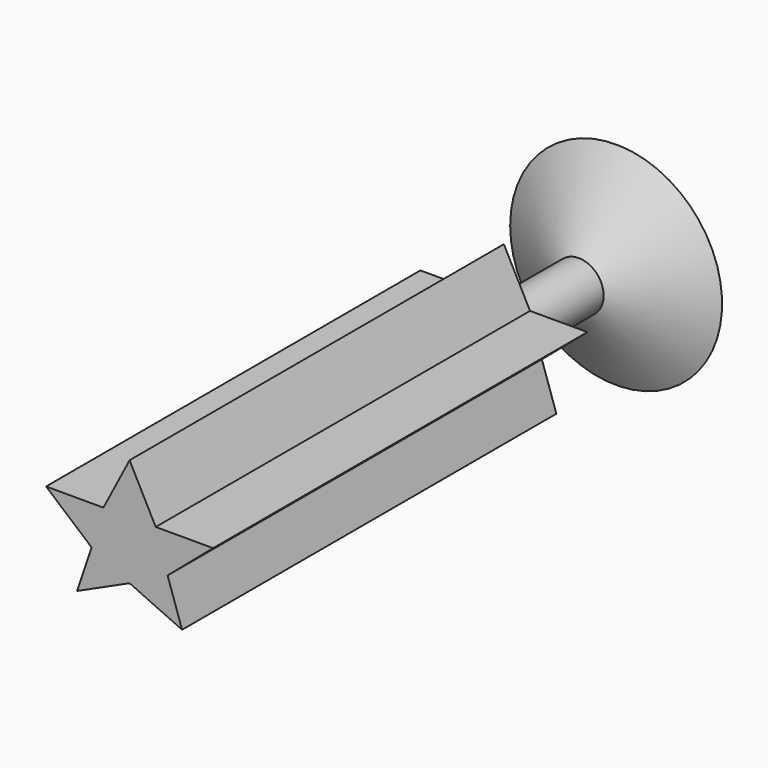
from build123d import *

# Parameters (mm, degrees)
F1_DEPTH  = 150
F2_R      = 7.994771935
F3_DEPTH  = 30
F3_FACE_R = 7.994771935
F4_DEPTH  = 15
F4_TAPER  = -60


with BuildPart() as f1:
    # F0 (on Front) → F1 (new body)
    with BuildSketch(Plane.XZ):
        Polygon((8.3843320608, 7.994771935), (0, 24.09890946), (-8.3843320608, 7.994771935), (-26.7688590564, 7.994771935), (-12.1869118884, -4.4532320462), (-16.8345868587, -18.2800656185), (0, -10.6114018708), (16.8345868587, -18.2800656185), (12.1869118884, -4.4532320462), (26.7688590564, 7.994771935), align=None)
    extrude(amount=F1_DEPTH)

    # F2 (on face) → F3 (join)
    with BuildSketch(Plane(origin=(0, 0, 0), x_dir=(-1, 0, 0), z_dir=(0, 1, 0))):
        Circle(F2_R)
    extrude(amount=F3_DEPTH)

    # F3_face (on face) → F4 (join)
    with BuildSketch(Plane(origin=(0, 30, 0), x_dir=(-1, 0, 0), z_dir=(0, 1, 0))):
        Circle(F3_FACE_R)
    extrude(amount=F4_DEPTH, taper=F4_TAPER)


solid = f1.part
